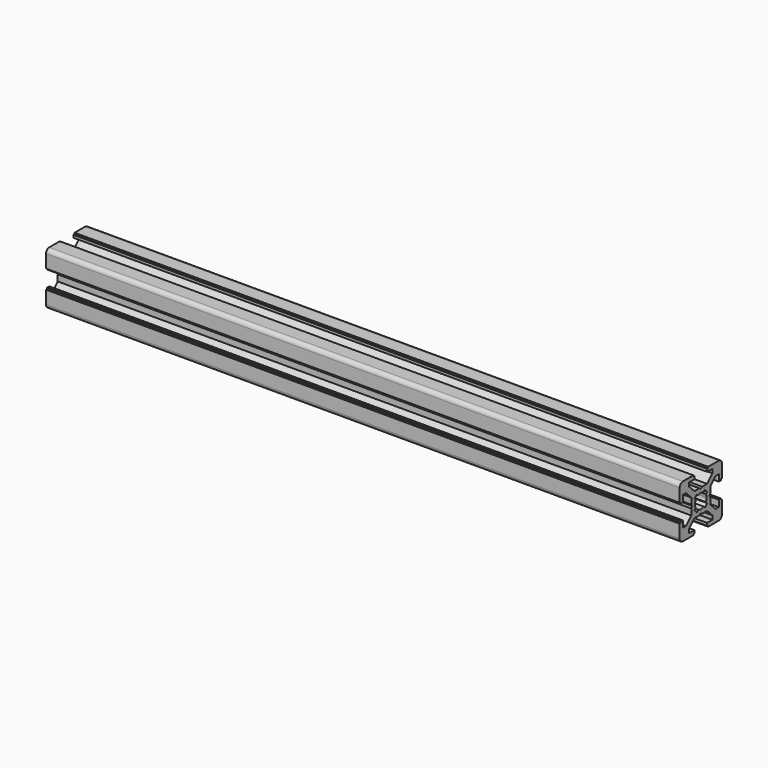
from build123d import *

# Parameters (mm, degrees)
PAD_DEPTH = 240


with BuildPart() as part:
    # Sketch → Pad (new body)
    with BuildSketch(Plane.YZ):
        with BuildLine():
            Line((0, 4.1), (0.65, 4.5))
            Line((0.65, 4.5), (3, 4.5))
            Line((3, 4.5), (5.5, 7))
            Line((5.5, 7), (5.5, 8.5))
            Line((5.5, 8.5), (3, 8.5))
            Line((3, 8.5), (3, 9.5))
            Line((3, 9.5), (3.5, 9.5))
            Line((3.5, 9.5), (3.5, 10))
            Line((3.5, 10), (8.5, 10))
            ThreePointArc((10, 8.5), (9.56066, 9.56066), (8.5, 10))
            Line((10, 8.5), (10, 3.5))
            Line((10, 3.5), (9.5, 3.5))
            Line((9.5, 3.5), (9.5, 3))
            Line((9.5, 3), (8.5, 3))
            Line((8.5, 3), (8.5, 5.5))
            Line((8.5, 5.5), (7, 5.5))
            Line((7, 5.5), (4.5, 3))
            Line((4.5, 3), (4.5, 0.65))
            Line((4.5, 0.65), (4.1, 0))
            Line((4.5, -0.65), (4.1, 0))
            Line((4.5, -3), (4.5, -0.65))
            Line((7, -5.5), (4.5, -3))
            Line((8.5, -5.5), (7, -5.5))
            Line((8.5, -3), (8.5, -5.5))
            Line((9.5, -3), (8.5, -3))
            Line((9.5, -3.5), (9.5, -3))
            Line((10, -3.5), (9.5, -3.5))
            Line((10, -8.5), (10, -3.5))
            ThreePointArc((8.5, -10), (9.56066, -9.56066), (10, -8.5))
            Line((3.5, -10), (8.5, -10))
            Line((3.5, -9.5), (3.5, -10))
            Line((3, -9.5), (3.5, -9.5))
            Line((3, -8.5), (3, -9.5))
            Line((5.5, -8.5), (3, -8.5))
            Line((5.5, -7), (5.5, -8.5))
            Line((3, -4.5), (5.5, -7))
            Line((0.65, -4.5), (3, -4.5))
            Line((0, -4.1), (0.65, -4.5))
            Line((0, -4.1), (-0.65, -4.5))
            Line((-0.65, -4.5), (-3, -4.5))
            Line((-3, -4.5), (-5.5, -7))
            Line((-5.5, -7), (-5.5, -8.5))
            Line((-5.5, -8.5), (-3, -8.5))
            Line((-3, -8.5), (-3, -9.5))
            Line((-3, -9.5), (-3.5, -9.5))
            Line((-3.5, -9.5), (-3.5, -10))
            Line((-3.5, -10), (-8.5, -10))
            ThreePointArc((-10, -8.5), (-9.56066, -9.56066), (-8.5, -10))
            Line((-10, -8.5), (-10, -3.5))
            Line((-10, -3.5), (-9.5, -3.5))
            Line((-9.5, -3.5), (-9.5, -3))
            Line((-9.5, -3), (-8.5, -3))
            Line((-8.5, -3), (-8.5, -5.5))
            Line((-8.5, -5.5), (-7, -5.5))
            Line((-7, -5.5), (-4.5, -3))
            Line((-4.5, -3), (-4.5, -0.65))
            Line((-4.5, -0.65), (-4.1, 0))
            Line((-4.5, 0.65), (-4.1, 0))
            Line((-4.5, 3), (-4.5, 0.65))
            Line((-7, 5.5), (-4.5, 3))
            Line((-8.5, 5.5), (-7, 5.5))
            Line((-8.5, 3), (-8.5, 5.5))
            Line((-9.5, 3), (-8.5, 3))
            Line((-9.5, 3.5), (-9.5, 3))
            Line((-10, 3.5), (-9.5, 3.5))
            Line((-10, 8.5), (-10, 3.5))
            ThreePointArc((-8.5, 10), (-9.56066, 9.56066), (-10, 8.5))
            Line((-3.5, 10), (-8.5, 10))
            Line((-3.5, 9.5), (-3.5, 10))
            Line((-3, 9.5), (-3.5, 9.5))
            Line((-3, 8.5), (-3, 9.5))
            Line((-5.5, 8.5), (-3, 8.5))
            Line((-5.5, 7), (-5.5, 8.5))
            Line((-3, 4.5), (-5.5, 7))
            Line((-0.65, 4.5), (-3, 4.5))
            Line((0, 4.1), (-0.65, 4.5))
        make_face()
        with BuildLine():
            Line((1.340499, 2.401159), (1.923239, 2.983899))
            Line((1.923239, 2.983899), (2.983899, 1.923239))
            Line((2.983899, 1.923239), (2.401159, 1.340499))
            ThreePointArc((2.75, 0), (2.661361, 0.692573), (2.401159, 1.340499))
            ThreePointArc((2.401164, -1.34049), (2.661362, -0.692568), (2.75, 0))
            Line((2.983904, -1.92323), (2.401164, -1.34049))
            Line((1.923247, -2.983894), (2.983904, -1.92323))
            Line((1.340507, -2.401154), (1.923247, -2.983894))
            ThreePointArc((0, -2.75), (0.692577, -2.66136), (1.340507, -2.401154))
            ThreePointArc((-1.340507, -2.401154), (-0.692577, -2.66136), (0, -2.75))
            Line((-1.340507, -2.401154), (-1.923247, -2.983894))
            Line((-1.923247, -2.983894), (-2.983904, -1.92323))
            Line((-2.983904, -1.92323), (-2.401164, -1.34049))
            ThreePointArc((-2.75, 0), (-2.661362, -0.692568), (-2.401164, -1.34049))
            ThreePointArc((-2.401159, 1.340499), (-2.661361, 0.692572), (-2.75, 0))
            Line((-2.983899, 1.923239), (-2.401159, 1.340499))
            Line((-1.923239, 2.983899), (-2.983899, 1.923239))
            Line((-1.340499, 2.401159), (-1.923239, 2.983899))
            ThreePointArc((0, 2.75), (-0.692573, 2.661361), (-1.340499, 2.401159))
            ThreePointArc((1.340499, 2.401159), (0.692573, 2.661361), (0, 2.75))
        make_face(mode=Mode.SUBTRACT)
    extrude(amount=PAD_DEPTH)


solid = part.part
